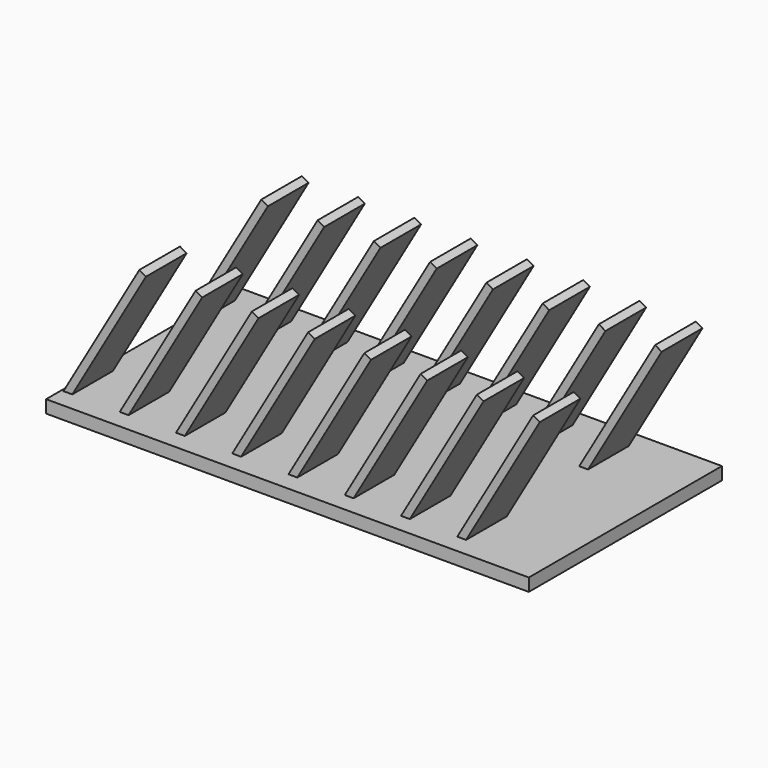
from build123d import *

# Parameters (mm, degrees)
SKETCH022_W            = 190
SKETCH022_H            = 95
PAD014_DEPTH           = 5
SKETCH023_W            = 3
SKETCH023_H            = 20
PAD015_DEPTH           = 60
LINEARPATTERN009_COUNT = 8
LINEARPATTERN009_PITCH = 22.142857


with BuildPart() as part:
    # Sketch022 → Pad014 (new body)
    with BuildSketch(Plane.XY):
        Rectangle(SKETCH022_W, SKETCH022_H)
    extrude(amount=PAD014_DEPTH)

    # Sketch023 (on DatumPlane) → Pad015 (join)
    with BuildSketch(Plane(origin=(62, 0, 4), x_dir=(0.866025, 0, -0.5), z_dir=(0.5, 0, 0.866025))):
        with Locations((0, 30)):
            Rectangle(SKETCH023_W, SKETCH023_H)
        with Locations((0, -30)):
            Rectangle(SKETCH023_W, SKETCH023_H)
    pad015 = extrude(amount=PAD015_DEPTH)

    # LinearPattern009: Pad015 ×8
    with Locations(*[(-i * LINEARPATTERN009_PITCH, 0, 0) for i in range(1, LINEARPATTERN009_COUNT)]):
        add(pad015)


with BuildPart() as part_1:
    # Body007 placement: moved
    add(part.part.moved(Location((0, 132, 0))))


solid = part_1.part
